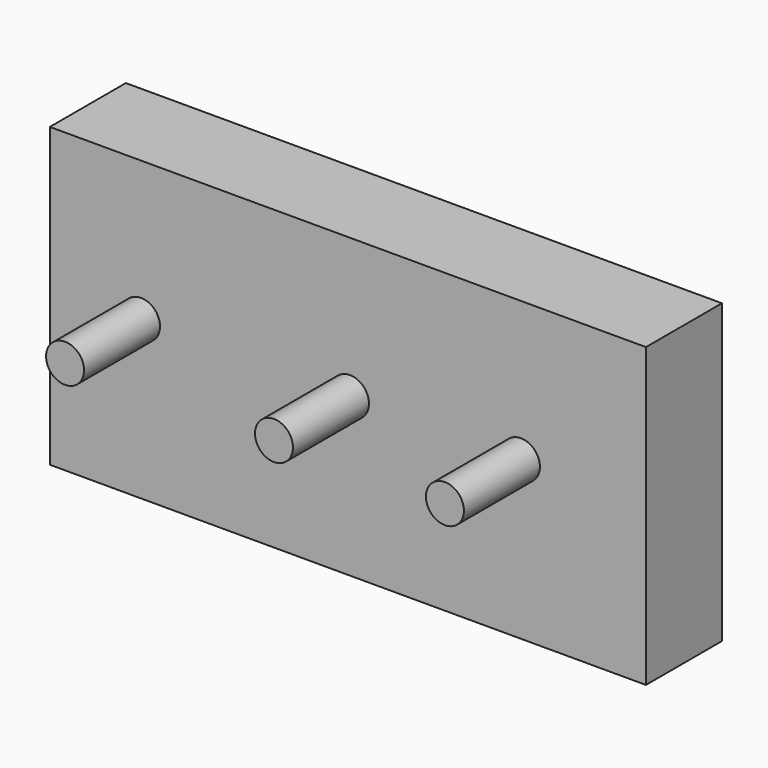
from build123d import *

# Parameters (mm, degrees)
F0_W     = 156.916313
F0_H     = 78.295462
F1_DEPTH = 25
F2_R     = 5
F3_DEPTH = 25


with BuildPart() as f1:
    # F0 (on Front) → F1 (new body)
    with BuildSketch(Plane.XZ):
        with Locations((78.458157, 39.147731)):
            Rectangle(F0_W, F0_H)
    extrude(amount=F1_DEPTH)

    # F2 (on face) → F3 (join)
    with BuildSketch(Plane.XZ.offset(25)):
        with Locations((24.000163, 41.481324)):
            Circle(F2_R)
        with Locations((79.000163, 41.481324)):
            Circle(F2_R)
        with Locations((124.000163, 41.481324)):
            Circle(F2_R)
    extrude(amount=F3_DEPTH)


solid = f1.part
